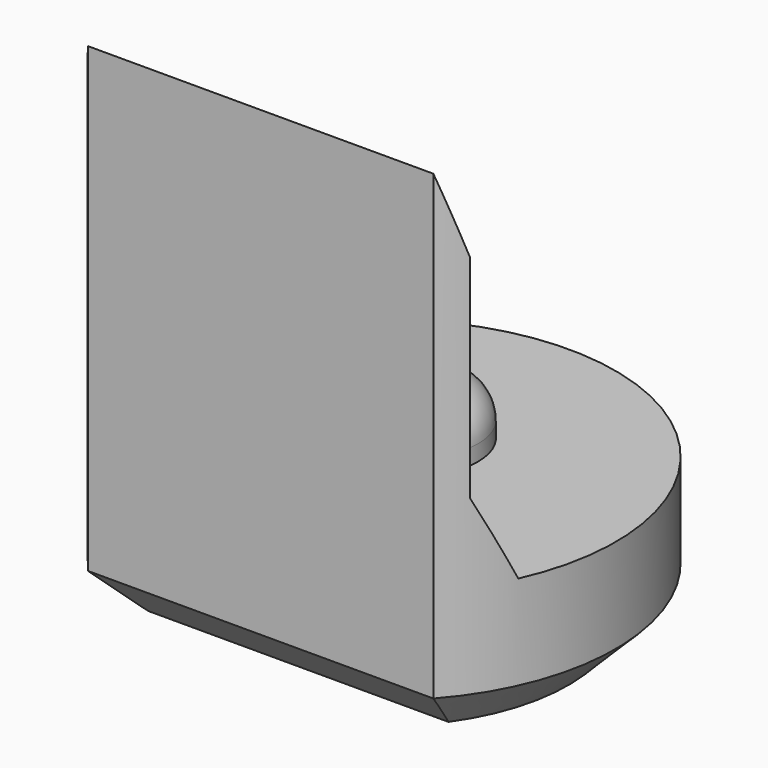
from build123d import *

# Parameters (mm, degrees)
PAD003_DEPTH         = 6.5
POCKET004_DEPTH      = 2.951
POCKET004_DEPTH_BACK = 2.951
SKETCH013_R          = 0.8
PAD006_DEPTH         = 0.7
FILLET_R             = 0.5
CHAMFER004_SIZE      = 0.6


with BuildPart() as part:
    # Sketch004 → Pad003 (new body)
    with BuildSketch(Plane.XY):
        with BuildLine():
            ThreePointArc((2.2, -1.9653244007), (0, 2.95), (-2.2, -1.9653244007))
            Line((-2.2, -1.9653244007), (2.2, -1.9653244007))
        make_face()
    extrude(amount=PAD003_DEPTH)

    # Sketch014 → Pocket004 (cut, two sides)
    with BuildSketch(Plane.YZ) as pocket004_sk:
        Polygon((-1.97, 6.5), (-1.67, 5.5), (-1.67, 2.8), (-1.22, 1.8), (4, 1.8), (4, 6.5), align=None)
    extrude(amount=-POCKET004_DEPTH, mode=Mode.SUBTRACT)
    extrude(pocket004_sk.sketch, amount=POCKET004_DEPTH_BACK, mode=Mode.SUBTRACT)

    # Sketch013 (on Face7 of Pocket004) → Pad006 (join)
    with BuildSketch(Plane.XY.offset(1.8)):
        with Locations((0, 0.5)):
            Circle(SKETCH013_R)
    extrude(amount=PAD006_DEPTH)

    # Fillet
    fillet_edges = [part.edges().sort_by_distance(p)[0] for p in [
        (-0.8, 0.5, 2.5),
    ]]
    fillet(fillet_edges, radius=FILLET_R)

    # Chamfer004
    chamfer004_edges = [part.edges().sort_by_distance(p)[0] for p in [
        (0, 2.95, 0),
        (0, -1.965324, 0),
    ]]
    chamfer(chamfer004_edges, length=CHAMFER004_SIZE)


with BuildPart() as part_1:
    # Body031 placement: moved
    add(part.part.moved(Location((0, 72, 0))))


solid = part_1.part
